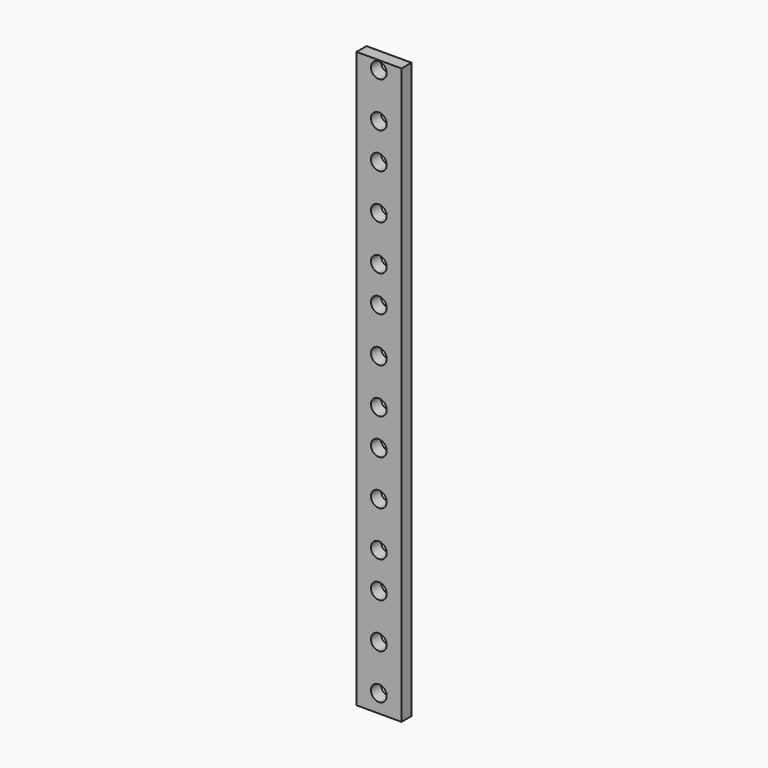
from build123d import *

# Parameters (mm, degrees)
SKETCH_W  = 15.875
SKETCH_H  = 203.2
SKETCH_R  = 2.775
PAD_DEPTH = 4.4


with BuildPart() as part:
    # Sketch → Pad (new body)
    with BuildSketch(Plane.XZ):
        with Locations((7.9375, 101.6)):
            Rectangle(SKETCH_W, SKETCH_H)
        with Locations((7.874, 6.35)):
            Circle(SKETCH_R, mode=Mode.SUBTRACT)
        with Locations((7.874, 22.23)):
            Circle(SKETCH_R, mode=Mode.SUBTRACT)
        with Locations((7.874, 38.11)):
            Circle(SKETCH_R, mode=Mode.SUBTRACT)
        with Locations((7.874, 50.81)):
            Circle(SKETCH_R, mode=Mode.SUBTRACT)
        with Locations((7.874, 66.69)):
            Circle(SKETCH_R, mode=Mode.SUBTRACT)
        with Locations((7.874, 82.57)):
            Circle(SKETCH_R, mode=Mode.SUBTRACT)
        with Locations((7.874, 95.27)):
            Circle(SKETCH_R, mode=Mode.SUBTRACT)
        with Locations((7.874, 111.15)):
            Circle(SKETCH_R, mode=Mode.SUBTRACT)
        with Locations((7.874, 127.03)):
            Circle(SKETCH_R, mode=Mode.SUBTRACT)
        with Locations((7.874, 139.73)):
            Circle(SKETCH_R, mode=Mode.SUBTRACT)
        with Locations((7.874, 155.61)):
            Circle(SKETCH_R, mode=Mode.SUBTRACT)
        with Locations((7.874, 171.49)):
            Circle(SKETCH_R, mode=Mode.SUBTRACT)
        with Locations((7.874, 184.19)):
            Circle(SKETCH_R, mode=Mode.SUBTRACT)
        with Locations((7.874, 200.065)):
            Circle(SKETCH_R, mode=Mode.SUBTRACT)
    extrude(amount=PAD_DEPTH)


solid = part.part
